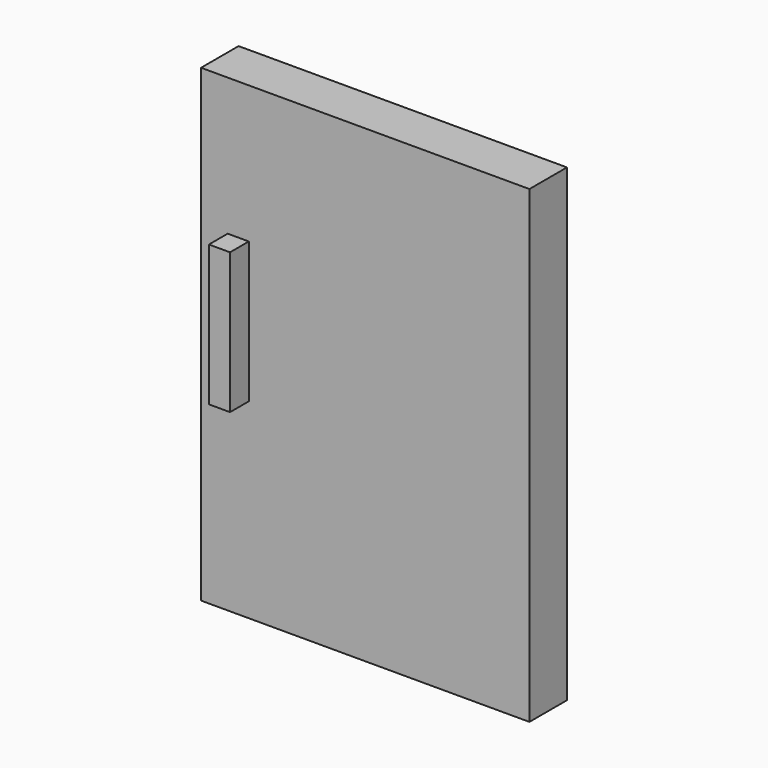
from build123d import *

# Parameters (mm, degrees)
F0_W     = 88.9
F0_H     = 127
F0_W_2   = 5.715001
F0_H_2   = 38.1
F1_DEPTH = 6.35
F2_DEPTH = 12.7


with BuildPart() as f1:
    # F0 (on Front) → F1 (new body, symmetric)
    with BuildSketch(Plane.XZ):
        Rectangle(F0_W, F0_H)
        with Locations((-34.382177, 7.25129)):
            Rectangle(F0_W_2, F0_H_2, mode=Mode.SUBTRACT)
    extrude(amount=F1_DEPTH, both=True)

    # F0 (on Front) → F2 (join)
    with BuildSketch(Plane.XZ):
        with Locations((-34.382177, 7.25129)):
            Rectangle(F0_W_2, F0_H_2)
    extrude(amount=F2_DEPTH)


solid = f1.part
